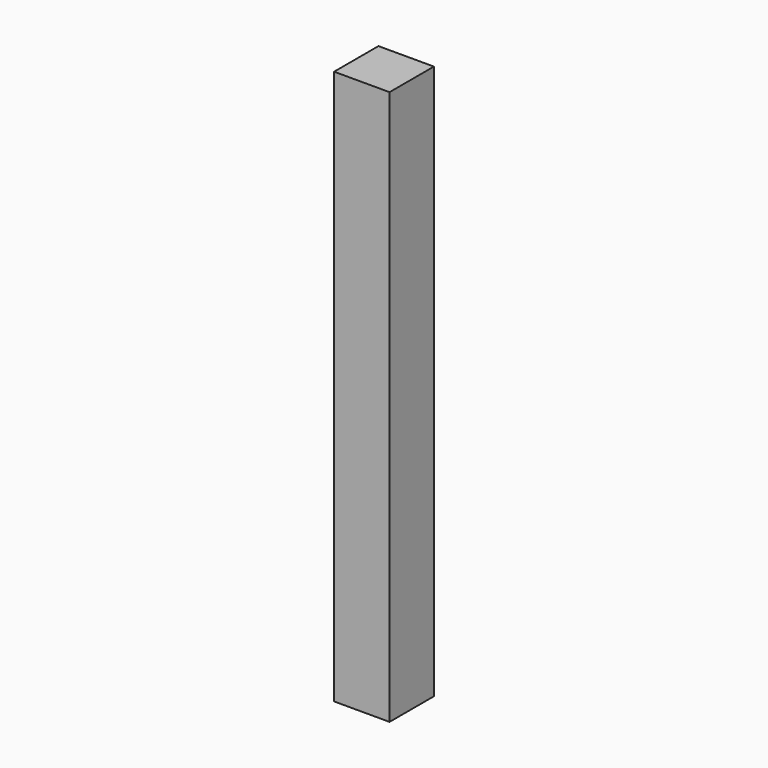
from build123d import *

# Parameters (mm, degrees)
F0_W     = 88.9
F0_H     = 88.9
F1_DEPTH = 889


with BuildPart() as f1:
    # F0 (on Top) → F1 (new body)
    with BuildSketch(Plane.XY):
        Rectangle(F0_W, F0_H)
    extrude(amount=F1_DEPTH)


with BuildPart() as f2_1:
    # F2: copy of F1
    add(f1.part)


solid = f1.part
